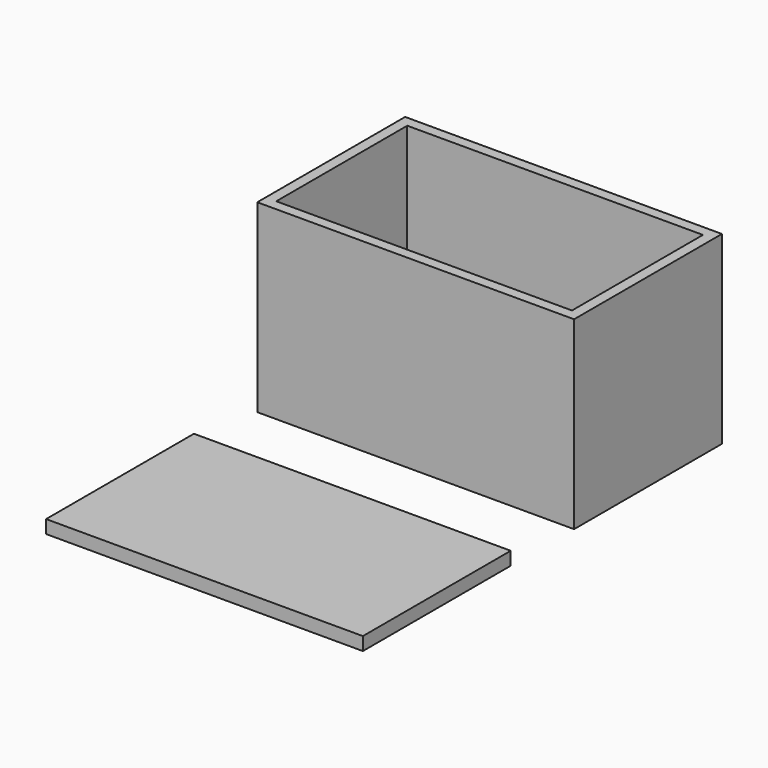
from build123d import *

# Parameters (mm, degrees)
F0_W     = 60
F0_H     = 35
F1_DEPTH = 35
F2_T     = -2
F3_W     = 60
F3_H     = 35
F4_DEPTH = 2.5


with BuildPart() as f1:
    # F0 (on Top) → F1 (new body)
    with BuildSketch(Plane.XY):
        with Locations((-30, 17.5)):
            Rectangle(F0_W, F0_H)
    extrude(amount=F1_DEPTH)

    # F2
    f2_openings = [f1.faces().sort_by_distance(p)[0] for p in [
        (-30, 17.5, 35),
    ]]
    offset(amount=F2_T, openings=f2_openings)


with BuildPart() as f4:
    # F3 (on Top) → F4 (new body)
    with BuildSketch(Plane.XY):
        with Locations((-30, -32.5)):
            Rectangle(F3_W, F3_H)
    extrude(amount=F4_DEPTH)


with BuildPart() as f5_1:
    # F5: copy of F4
    add(f4.part)


solid = Compound([f1.part, f4.part, f5_1.part])
